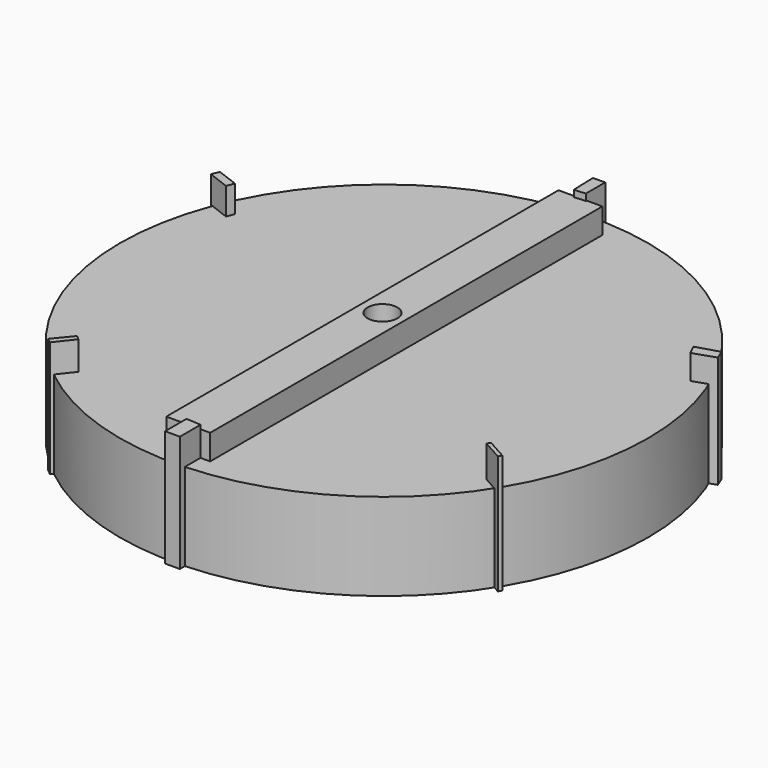
from build123d import *

# Parameters (mm, degrees)
F0_W      = 0.506427
F0_H      = 5.661787
F1_DEPTH  = 1.30028
F3_DEPTH  = 1.32063
F5_DEPTH  = 1.29407
F7_DEPTH  = 1.33985
F9_DEPTH  = 1.37372
F11_DEPTH = 1.34573
F13_DEPTH = 1.37604
F14_R     = 0.171709
F15_DEPTH = 25.4
F16_R     = 3.050278
F17_DEPTH = 1.00911
F18_R     = 0.164255
F19_DEPTH = 25.4


with BuildPart() as f1:
    # F0 (on Top) → F1 (new body)
    with BuildSketch(Plane.XY):
        with Locations((-39.739219, 18.816423)):
            Rectangle(F0_W, F0_H)
    extrude(amount=F1_DEPTH)

    # F10 (on Top) → F11 (join)
    with BuildSketch(Plane.XY):
        Polygon((-39.597359, 15.687432), (-39.597359, 15.986275), (-39.768159, 15.997162), (-39.768159, 15.687432), align=None)
    extrude(amount=F11_DEPTH)

    # F12 (on Top) → F13 (join)
    with BuildSketch(Plane.XY):
        Polygon((-39.799942, 21.628097), (-39.668221, 21.636469), (-39.668221, 21.917734), (-39.808854, 21.91334), align=None)
    extrude(amount=F13_DEPTH)

    # F14 (on Top) → F15 (cut)
    with BuildSketch(Plane.XY):
        with Locations((-39.735612, 18.785525)):
            Circle(F14_R)
    extrude(amount=F15_DEPTH, mode=Mode.SUBTRACT)


with BuildPart() as f3:
    # F2 (on Top) → F3 (new body)
    with BuildSketch(Plane.XY):
        Polygon((-42.612698, 19.904027), (-42.361978, 19.809047), (-42.328142, 19.896636), (-42.575743, 19.989025), align=None)
    extrude(amount=F3_DEPTH)


with BuildPart() as f5:
    # F4 (on Top) → F5 (new body)
    with BuildSketch(Plane.XY):
        Polygon((-37.141386, 20.031832), (-37.086494, 19.918036), (-36.835633, 20.001655), (-36.880072, 20.110225), align=None)
    extrude(amount=F5_DEPTH)


with BuildPart() as f7:
    # F6 (on Top) → F7 (new body)
    with BuildSketch(Plane.XY):
        Polygon((-41.72552, 16.44722), (-41.670151, 16.402923), (-41.506808, 16.610563), (-41.556641, 16.65209), align=None)
    extrude(amount=F7_DEPTH)


with BuildPart() as f9:
    # F8 (on Top) → F9 (new body)
    with BuildSketch(Plane.XY):
        Polygon((-37.063103, 17.174851), (-37.29802, 17.306013), (-37.320408, 17.26843), (-37.084421, 17.13667), align=None)
    extrude(amount=F9_DEPTH)


with BuildPart() as f17:
    # F16 (on Top) → F17 (new body)
    with BuildSketch(Plane.XY):
        with Locations((-39.734986, 18.806564)):
            Circle(F16_R)
    extrude(amount=F17_DEPTH)

    # F18 (on Top) → F19 (cut)
    with BuildSketch(Plane.XY):
        with Locations((-39.741199, 18.784132)):
            Circle(F18_R)
    extrude(amount=F19_DEPTH, mode=Mode.SUBTRACT)


solid = Compound([f1.part, f3.part, f5.part, f7.part, f9.part, f17.part])
